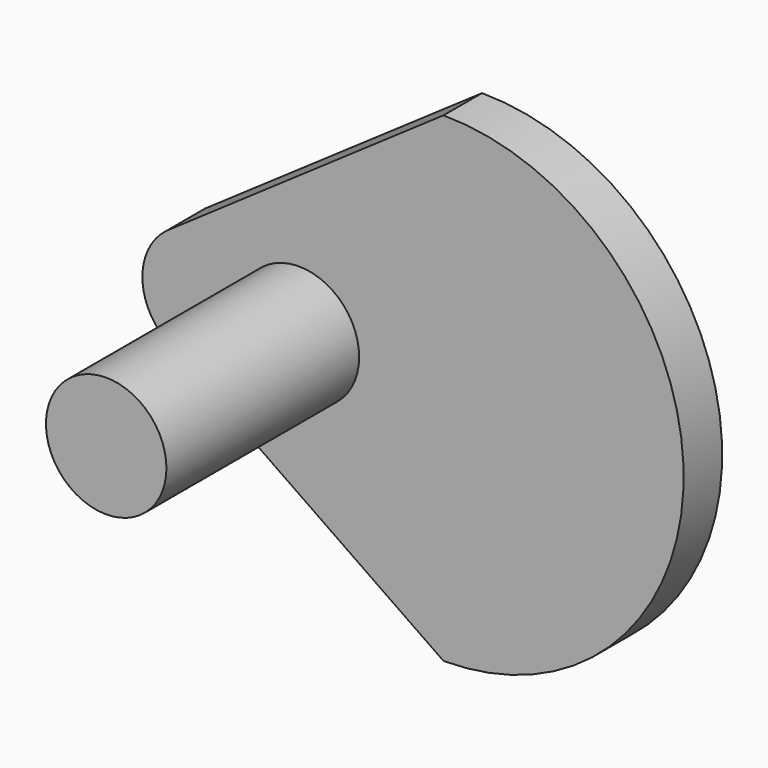
from build123d import *

# Parameters (mm, degrees)
F1_R     = 3.175
F2_DEPTH = 12.7
F4_DEPTH = 2.54
F5_R     = 3.175
F6_DEPTH = 1.27


with BuildPart() as f2:
    # F1 (on Front) → F2 (new body)
    with BuildSketch(Plane.XZ):
        with Locations((-7.62, 0)):
            Circle(F1_R)
    extrude(amount=F2_DEPTH)

    # F3 (on Front) → F4 (join)
    with BuildSketch(Plane.XZ):
        with BuildLine():
            Line((-14.5955, -2.559695), (0, -12.660234))
            ThreePointArc((0, -12.660234), (12.660234, 0), (0, 12.660234))
            Line((0, 12.660234), (-14.5955, 2.559695))
            ThreePointArc((-14.5955, 2.559695), (-15.87429, 0), (-14.5955, -2.559695))
        make_face()
    extrude(amount=-F4_DEPTH)

    # F5 (on face) → F6 (join)
    with BuildSketch(Plane(origin=(0, 2.54, 0), x_dir=(-1, 0, 0), z_dir=(0, 1, 0))):
        Circle(F5_R)
    extrude(amount=F6_DEPTH)


solid = f2.part
